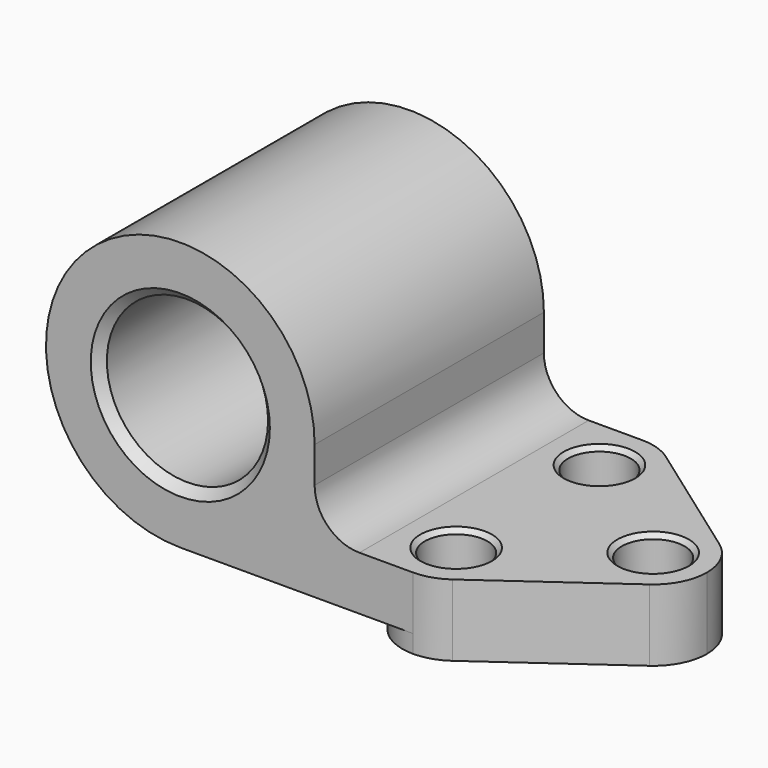
from build123d import *

# Parameters (mm, degrees)
F0_R     = 18
F1_DEPTH = 64
F2_R     = 7
F3_DEPTH = 25
F4_DEPTH = 4
F5_SIZE2 = 1
F5_SIZE  = 1
F6_SIZE2 = 2
F6_SIZE  = 2
F7_R     = 10


with BuildPart() as f1:
    # F0 (on Front) → F1 (new body)
    with BuildSketch(Plane.XZ):
        with BuildLine():
            ThreePointArc((0, -30), (21.213203, -21.213203), (30, 0))
            ThreePointArc((30, 0), (-21.213203, 21.213203), (0, -30))
        make_face()
        Circle(F0_R, mode=Mode.SUBTRACT)
        with BuildLine():
            Line((30, -18), (30, 0))
            ThreePointArc((30, 0), (21.213203, -21.213203), (0, -30))
            Line((0, -30), (40, -30))
            Line((40, -30), (40, -34))
            Line((40, -34), (52, -34))
            Line((52, -34), (80, -34))
            Line((80, -34), (92, -34))
            Line((92, -34), (92, -18))
            Line((92, -18), (30, -18))
        make_face()
    extrude(amount=F1_DEPTH)

    # F2 (on face) → F3 (cut)
    with BuildSketch(Plane(origin=(0, 0, -34), x_dir=(1, 0, 0), z_dir=(0, 0, -1))):
        with BuildLine():
            ThreePointArc((52, 64), (55.662129, 63.427546), (58.974858, 61.764802))
            Line((58.974858, 61.764802), (86.974858, 41.764802))
            ThreePointArc((86.974858, 41.764802), (90.670012, 37.490979), (92, 32))
            Line((92, 32), (92, 64))
            Line((92, 64), (52, 64))
        make_face()
        with BuildLine():
            Line((92, 0), (92, 32))
            ThreePointArc((92, 32), (90.670012, 26.509021), (86.974858, 22.235198))
            Line((86.974858, 22.235198), (58.974858, 2.235198))
            ThreePointArc((58.974858, 2.235198), (55.662129, 0.572454), (52, 0))
            Line((52, 0), (92, 0))
        make_face()
        with Locations((52, 52)):
            Circle(F2_R)
        with Locations((52, 12)):
            Circle(F2_R)
        with Locations((80, 32)):
            Circle(F2_R)
    extrude(amount=-F3_DEPTH, mode=Mode.SUBTRACT)

    # F2 (on face) → F4 (cut)
    with BuildSketch(Plane(origin=(0, 0, -34), x_dir=(1, 0, 0), z_dir=(0, 0, -1))):
        with BuildLine():
            ThreePointArc((40, 52), (43.514719, 60.485281), (52, 64))
            Line((52, 64), (40, 64))
            Line((40, 64), (40, 52))
        make_face()
        with BuildLine():
            ThreePointArc((52, 0), (43.514719, 3.514719), (40, 12))
            Line((40, 12), (40, 0))
            Line((40, 0), (52, 0))
        make_face()
    extrude(amount=-F4_DEPTH, mode=Mode.SUBTRACT)

    # F5
    f5_edges = [f1.edges().sort_by_distance(p)[0] for p in [
        (45, -12, -18),
        (73, -32, -18),
        (45, -52, -18),
        (45, -52, -34),
        (73, -32, -34),
        (45, -12, -34),
    ]]
    chamfer(f5_edges, length=F5_SIZE, length2=F5_SIZE2)

    # F6
    f6_edges = [f1.edges().sort_by_distance(p)[0] for p in [
        (-18, 0, 0),
        (-18, -64, 0),
    ]]
    chamfer(f6_edges, length=F6_SIZE, length2=F6_SIZE2)

    # F7
    f7_edges = [f1.edges().sort_by_distance(p)[0] for p in [
        (30, -32, -18),
    ]]
    fillet(f7_edges, radius=F7_R)


solid = f1.part
